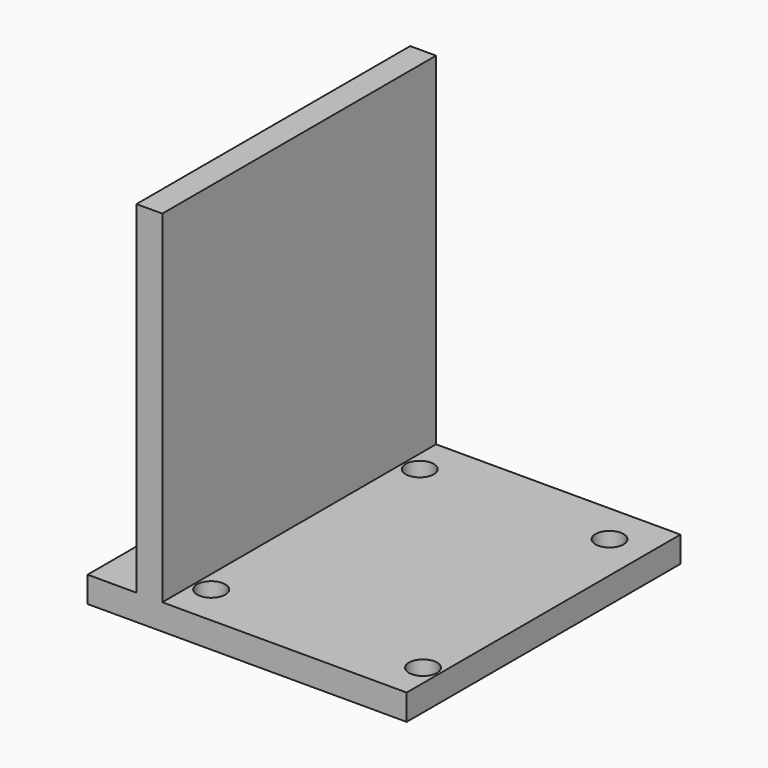
from build123d import *

# Parameters (mm, degrees)
F1_DEPTH       = 210
F3_D           = 10.5
F3_CBORE_D     = 17.25
F3_CBORE_DEPTH = 10


with BuildPart() as f1:
    # F0 (on Front) → F1 (new body)
    with BuildSketch(Plane.XZ):
        Polygon((0, 210), (0, 0), (-30, 0), (-30, -15.875), (165.875, -15.875), (165.875, 0), (15.875, 0), (15.875, 210), align=None)
    extrude(amount=-F1_DEPTH)

    # F3 (through all)
    with Locations(Plane.XY):
        with Locations((25.875, 25), (155.875, 25), (142.3562726393, 185), (25.875, 185)):
            CounterBoreHole(F3_D / 2, F3_CBORE_D / 2, F3_CBORE_DEPTH)


solid = f1.part
